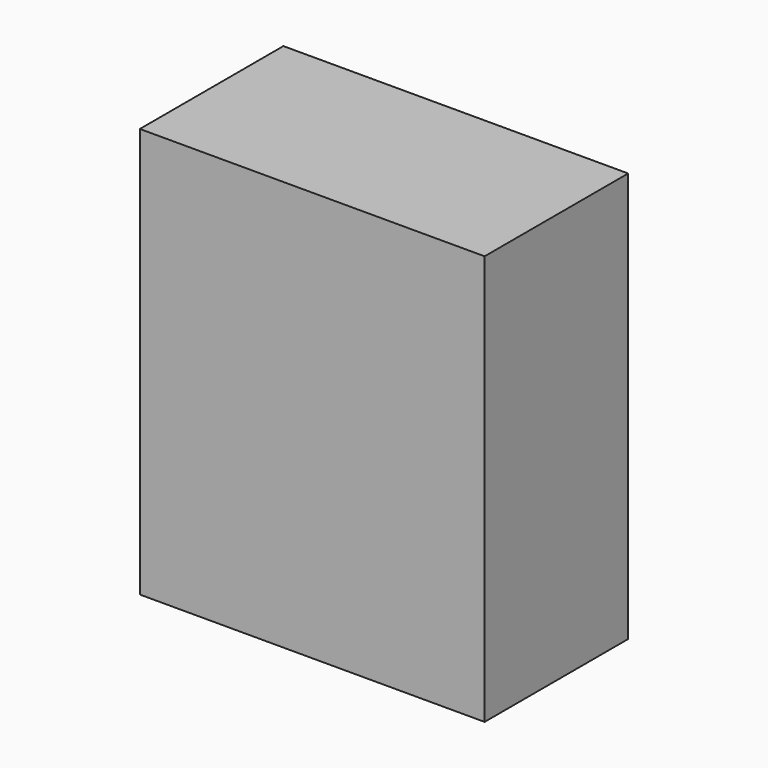
from build123d import *

# Parameters (mm, degrees)
F0_W     = 255.4635107517
F0_H     = 167.3530042171
F1_DEPTH = 127
F3_W     = 146.4032530785
F3_H     = 174.0650087595
F4_DEPTH = 76.2
F5_T     = -2.54


with BuildPart() as f1:
    # F0 (on Front) → F1 (new body)
    with BuildSketch(Plane.XZ):
        Rectangle(F0_W, F0_H)
    extrude(amount=F1_DEPTH)


with BuildPart() as f4:
    # F3 (on Front) → F4 (new body)
    with BuildSketch(Plane.XZ):
        Rectangle(F3_W, F3_H)
    extrude(amount=F4_DEPTH)

    # F5
    f5_openings = [f4.faces().sort_by_distance(p)[0] for p in [
        (0, 0, 0),
    ]]
    offset(amount=F5_T, openings=f5_openings)


solid = f4.part
